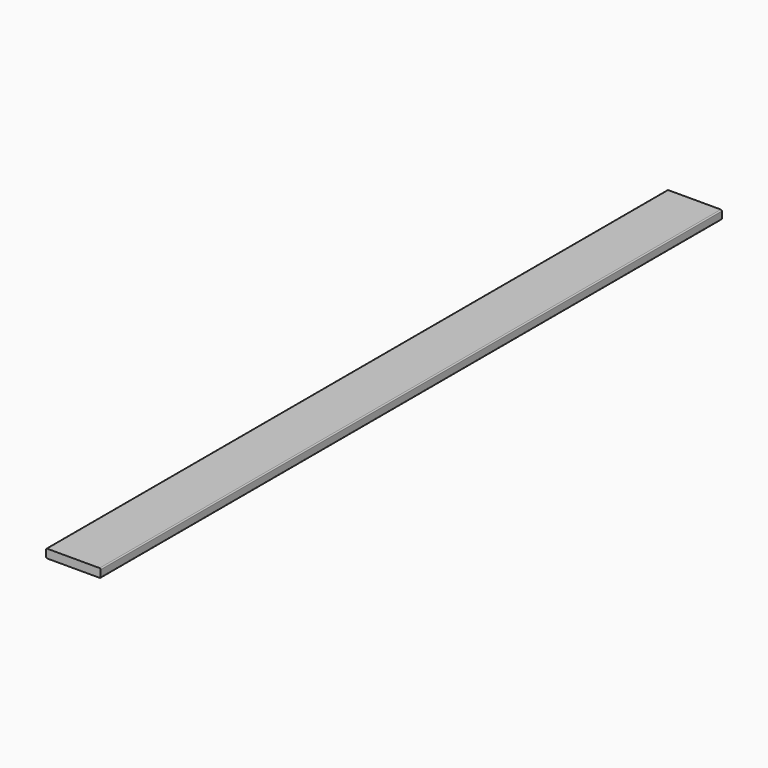
from build123d import *

# Parameters (mm, degrees)
F1_DEPTH = 1714.5


with BuildPart() as f1:
    # F0 (on Front) → F1 (new body, symmetric)
    with BuildSketch(Plane.XZ):
        with BuildLine():
            Line((115.824, 19.05), (-115.824, 19.05))
            ThreePointArc((-115.824, 19.05), (-119.236497, 17.636497), (-120.65, 14.224))
            Line((-120.65, 14.224), (-120.65, -14.224))
            ThreePointArc((-120.65, -14.224), (-119.236497, -17.636497), (-115.824, -19.05))
            Line((-115.824, -19.05), (115.824, -19.05))
            ThreePointArc((115.824, -19.05), (119.236497, -17.636497), (120.65, -14.224))
            Line((120.65, -14.224), (120.65, 14.224))
            ThreePointArc((120.65, 14.224), (119.236497, 17.636497), (115.824, 19.05))
        make_face()
    extrude(amount=F1_DEPTH, both=True)


solid = f1.part
